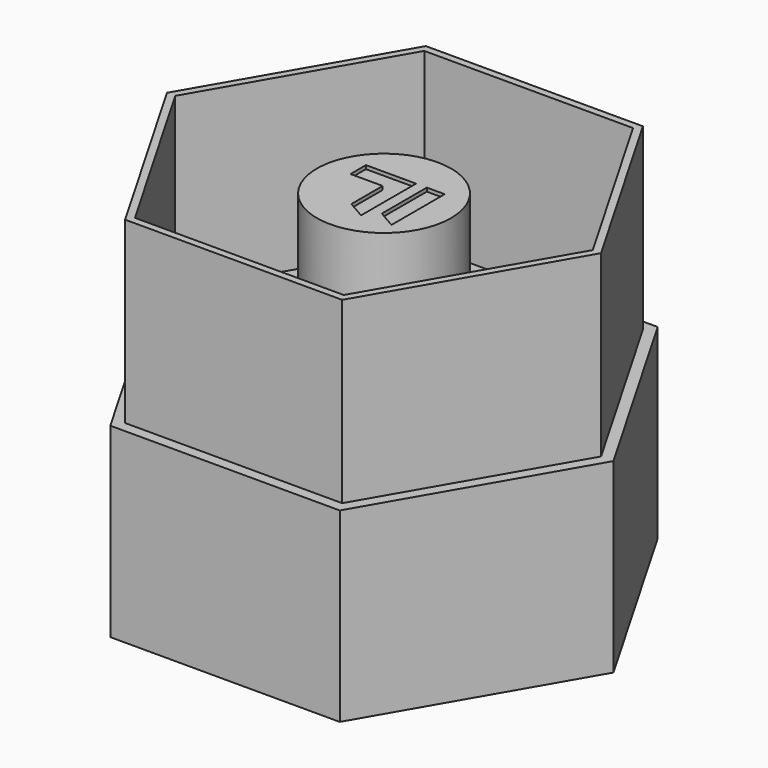
from build123d import *

# Parameters (mm, degrees)
F1_DEPTH = 63.5
F0_R     = 23.8125
F2_DEPTH = 2.54
F3_DEPTH = 57.15
F4_DEPTH = 66.04
F5_DEPTH = 2.54
F7_DEPTH = 1.27


with BuildPart() as f1:
    # F0 (on Top) → F1 (new body)
    with BuildSketch(Plane.XY):
        Polygon((38.4948291982, 66.675), (-38.4948291982, 66.675), (-76.9896583964, 0), (-38.4948291982, -66.675), (38.4948291982, -66.675), (76.9896583964, 0), align=None)
        Polygon((-37.0283595145, 64.135), (37.0283595145, 64.135), (74.056719029, 0), (37.0283595145, -64.135), (-37.0283595145, -64.135), (-74.056719029, 0), align=None, mode=Mode.SUBTRACT)
    extrude(amount=F1_DEPTH)

    # F0 (on Top) → F2 (join)
    with BuildSketch(Plane.XY):
        Polygon((74.056719029, 0), (37.0283595145, 64.135), (-37.0283595145, 64.135), (-74.056719029, 0), (-37.0283595145, -64.135), (37.0283595145, -64.135), align=None)
        Circle(F0_R, mode=Mode.SUBTRACT)
    extrude(amount=F2_DEPTH)

    # F0 (on Top) → F3 (join)
    with BuildSketch(Plane.XY):
        Circle(F0_R)
    extrude(amount=F3_DEPTH)

    # F6 (on face) → F7 (cut)
    with BuildSketch(Plane.XY.offset(57.15)):
        Polygon((13.4640260006, -13.5201268494), (13.4640260006, 10.0844563534), (7.1140260006, 10.0844563534), (7.1140260006, -9.8625252509), align=None)
        Polygon((3.3040260006, -14.3112281538), (3.3040260006, 10.0844563534), (-14.4759739994, 10.0844563534), (-14.4759739994, 3.2264567894), (-3.0459739994, 3.2264567894), (-3.0459739994, -10.6536265554), align=None)
    extrude(amount=-F7_DEPTH, mode=Mode.SUBTRACT)


with BuildPart() as f4:
    # F0 (on Top) → F4 (new body)
    with BuildSketch(Plane.XY):
        Polygon((40.6945337238, -70.485), (81.3890674477, 0), (40.6945337238, 70.485), (-40.6945337238, 70.485), (-81.3890674477, 0), (-40.6945337238, -70.485), align=None)
        Polygon((39.2280640401, 67.945), (78.4561280802, 0), (39.2280640401, -67.945), (-39.2280640401, -67.945), (-78.4561280802, 0), (-39.2280640401, 67.945), align=None, mode=Mode.SUBTRACT)
    extrude(amount=-F4_DEPTH)

    # F0 (on Top) → F5 (join)
    with BuildSketch(Plane.XY):
        Polygon((40.6945337238, -70.485), (81.3890674477, 0), (40.6945337238, 70.485), (-40.6945337238, 70.485), (-81.3890674477, 0), (-40.6945337238, -70.485), align=None)
        Polygon((39.2280640401, 67.945), (78.4561280802, 0), (39.2280640401, -67.945), (-39.2280640401, -67.945), (-78.4561280802, 0), (-39.2280640401, 67.945), align=None, mode=Mode.SUBTRACT)
        Polygon((39.2280640401, -67.945), (78.4561280802, 0), (39.2280640401, 67.945), (-39.2280640401, 67.945), (-78.4561280802, 0), (-39.2280640401, -67.945), align=None)
        Polygon((-76.9896583964, 0), (-38.4948291982, 66.675), (38.4948291982, 66.675), (76.9896583964, 0), (38.4948291982, -66.675), (-38.4948291982, -66.675), align=None, mode=Mode.SUBTRACT)
        Polygon((38.4948291982, 66.675), (-38.4948291982, 66.675), (-76.9896583964, 0), (-38.4948291982, -66.675), (38.4948291982, -66.675), (76.9896583964, 0), align=None)
        Polygon((-37.0283595145, 64.135), (37.0283595145, 64.135), (74.056719029, 0), (37.0283595145, -64.135), (-37.0283595145, -64.135), (-74.056719029, 0), align=None, mode=Mode.SUBTRACT)
        Polygon((74.056719029, 0), (37.0283595145, 64.135), (-37.0283595145, 64.135), (-74.056719029, 0), (-37.0283595145, -64.135), (37.0283595145, -64.135), align=None)
        Circle(F0_R, mode=Mode.SUBTRACT)
        Circle(F0_R)
    extrude(amount=-F5_DEPTH)


solid = Compound([f1.part, f4.part])
